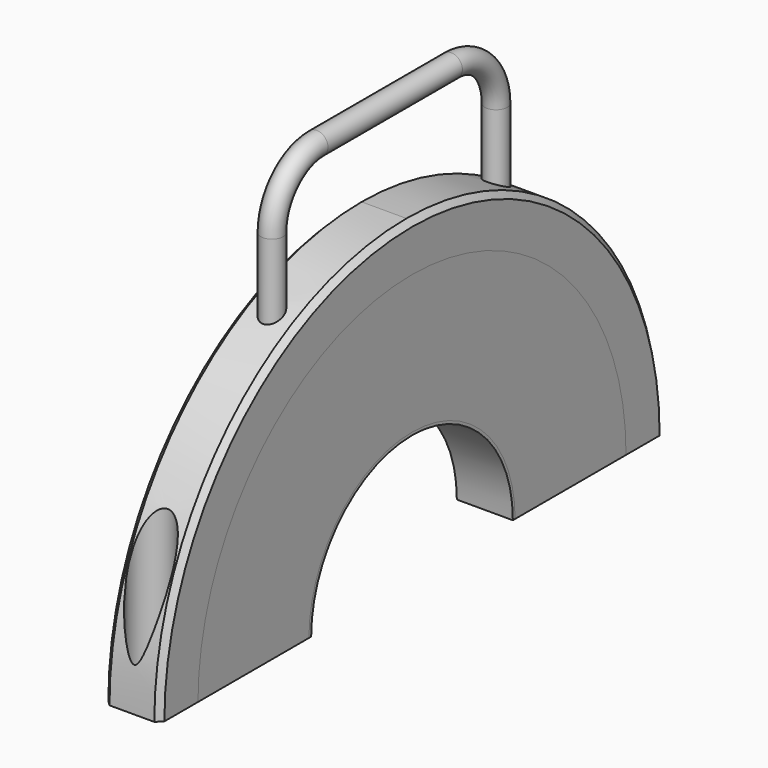
from build123d import *

# Parameters (mm, degrees)
F0_W           = 20
F0_H           = 1
F2_W           = 20
F2_H           = 49.5
F4_W           = 20
F4_H           = 17
F8_R           = 4
F10_SIZE       = 2
F11_W          = 20
F11_H          = 115
F12_DEPTH      = 112.5010001
F12_DEPTH_BACK = 112.5010001
F14_R          = 7.5
F15_DEPTH      = 52
F17_D          = 8


with BuildPart() as f1:
    # F0 (on Front) → F1 (revolve)
    with BuildSketch(Plane.XZ):
        with Locations((0, 45.5)):
            Rectangle(F0_W, F0_H)
    revolve(axis=Axis((0, 0, 0), (1, 0, 0)))


with BuildPart() as f3:
    # F2 (on Front) → F3 (revolve)
    with BuildSketch(Plane.XZ):
        with Locations((0, 70.75)):
            Rectangle(F2_W, F2_H)
    revolve(axis=Axis((0, 0, 0), (1, 0, 0)))


with BuildPart() as f5:
    # F4 (on Front) → F5 (revolve)
    with BuildSketch(Plane.XZ):
        with Locations((0, 104)):
            Rectangle(F4_W, F4_H)
    revolve(axis=Axis((0, 0, 0), (1, 0, 0)))

    # F9: sweep along a path in F6
    with BuildLine(Plane.YZ) as f9_path:
        Line((-50, 95.1643315534), (-50, 125.7782218537))
        ThreePointArc((-50, 125.7782218537), (-44.1421356237, 139.9203574775), (-30, 145.7782218537))
        Line((-30, 145.7782218537), (30, 145.7782218537))
        ThreePointArc((30, 145.7782218537), (44.1421356237, 139.9203574775), (50, 125.7782218537))
        Line((50, 125.7782218537), (50, 95.1643315534))
    # F8 (on plane+point) → F9 (sweep)
    with BuildSketch(Plane.XY.offset(95.1643315534)):
        with Locations((0, -50)):
            Circle(F8_R)
    sweep(path=f9_path.line)

    # F10
    f10_edges = [f5.edges().sort_by_distance(p)[0] for p in [
        (10, 0, -112.5),
        (-10, 0, -112.5),
    ]]
    chamfer(f10_edges, length=F10_SIZE)


with BuildPart() as f12_tool:
    # F11 (on Front) → F12 (new body, two sides)
    with BuildSketch(Plane.XZ) as f12_sk:
        with Locations((0, -57.5)):
            Rectangle(F11_W, F11_H)
    extrude(amount=F12_DEPTH)
    extrude(f12_sk.sketch, amount=-F12_DEPTH_BACK)


with BuildPart() as f1_1:
    add(f1.part)

    # F12: cut by f12_tool
    add(f12_tool.part, mode=Mode.SUBTRACT)


with BuildPart() as f3_1:
    add(f3.part)

    # F12: cut by f12_tool
    add(f12_tool.part, mode=Mode.SUBTRACT)


with BuildPart() as f5_1:
    add(f5.part)

    # F12: cut by f12_tool
    add(f12_tool.part, mode=Mode.SUBTRACT)

    # F14 (on offset) → F15 (cut)
    with BuildSketch(Plane(origin=(0, 0, 60), x_dir=(1, 0, 0), z_dir=(0, 0, -1))):
        with Locations((0, 104)):
            Circle(F14_R)
        with Locations((0, -104)):
            Circle(F14_R)
    extrude(amount=F15_DEPTH, mode=Mode.SUBTRACT)

    # F17 (through all)
    with Locations(Plane.XY.offset(8)):
        with Locations((0, 104), (0, -104)):
            Hole(F17_D / 2)


solid = Compound([f1_1.part, f3_1.part, f5_1.part])
